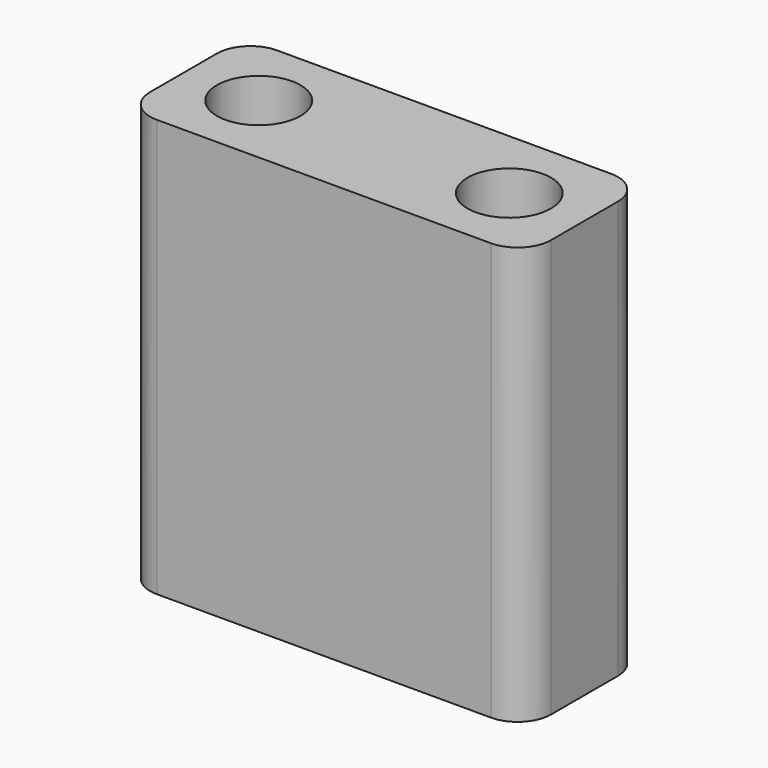
from build123d import *

# Parameters (mm, degrees)
F0_W     = 24
F0_H     = 9
F0_R     = 2.5
F1_DEPTH = 25
F2_R     = 2


with BuildPart() as f1:
    # F0 (on Top) → F1 (new body)
    with BuildSketch(Plane.XY):
        Rectangle(F0_W, F0_H)
        with Locations((-7.5, 0)):
            Circle(F0_R, mode=Mode.SUBTRACT)
        with Locations((7.5, 0)):
            Circle(F0_R, mode=Mode.SUBTRACT)
    extrude(amount=F1_DEPTH)

    # F2
    f2_edges = [f1.edges().sort_by_distance(p)[0] for p in [
        (-12, 4.5, 12.5),
        (12, 4.5, 12.5),
        (12, -4.5, 12.5),
        (-12, -4.5, 12.5),
    ]]
    fillet(f2_edges, radius=F2_R)


solid = f1.part
